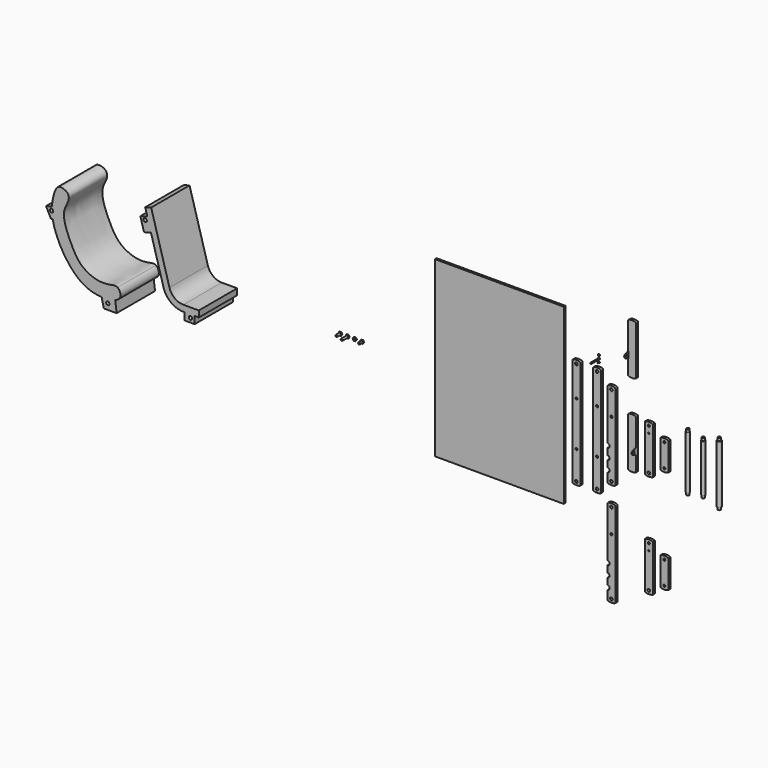
from build123d import *

# Parameters (mm, degrees)
F0_R           = 12.8
F0_R_2         = 10
F1_DEPTH       = 25
F2_R           = 12.8
F2_R_2         = 10
F3_DEPTH       = 25
F5_DEPTH       = 25
F6_R           = 6
F7_DEPTH       = 77
F8_R           = 10
F8_2_R         = 10
F8_3_R         = 10
F9_R           = 12.8
F9_R_2         = 6
F9_R_3         = 10
F10_DEPTH      = 25
F11_R          = 10
F12_DEPTH      = 25
F13_W          = 1247.740060091
F13_H          = 1678.5073876381
F14_DEPTH      = 20
F15_R          = 17.5
F16_DEPTH      = 257
F16_DEPTH_BACK = 257
F17_R          = 17.5
F18_DEPTH      = 232
F18_DEPTH_BACK = 232
F19_R          = 20
F20_DEPTH      = 282
F20_DEPTH_BACK = 282
F21_R          = 20
F22_DEPTH      = 25
F24_W          = 5
F24_H          = 60
F26_DEPTH      = 3
F27_R          = 20
F28_DEPTH      = 25
F23_R          = 10
F29_DEPTH      = 5
F30_R          = 2
F32_DEPTH      = 464
F37_R          = 200
F38_R          = 140
F39_W          = 100
F39_H          = 70
F39_R          = 16.5
F40_DEPTH      = 464
F41_R          = 12.8
F42_DEPTH      = 25
F43_R          = 12.8
F44_DEPTH      = 25
F45_R          = 12.8
F46_DEPTH      = 25
F47_R          = 12.8
F48_DEPTH      = 25
F49_R          = 12.8
F50_DEPTH      = 25
F51_R          = 12.8
F52_DEPTH      = 25
F54_DEPTH      = 8
F53_R          = 10
F55_R          = 10
F56_DEPTH      = 42
F57_R          = 10
F58_DEPTH      = 67
F59_R          = 10
F60_DEPTH      = 30
F61_R          = 10
F62_DEPTH      = 8
F65_DEPTH      = 5
F64_R          = 6
F66_R          = 6
F67_DEPTH      = 97
F69_DEPTH      = 3
F70_R          = 4
F71_DEPTH      = 13
F72_R          = 16.5
F73_DEPTH      = 464
F74_R          = 10
F75_DEPTH      = 5


with BuildPart() as f1:
    # F0 (on Front) → F1 (new body)
    with BuildSketch(Plane.XZ):
        with BuildLine():
            ThreePointArc((38.5, 525.6), (0, 533.3083427389), (-38.5, 525.6))
            Line((-38.5, 525.6), (-38.5, -525.6))
            ThreePointArc((-38.5, -525.6), (0, -533.3083427389), (38.5, -525.6))
            Line((38.5, -525.6), (38.5, 525.6))
        make_face()
        with Locations((0, -500)):
            Circle(F0_R, mode=Mode.SUBTRACT)
        with Locations((0, -225)):
            Circle(F0_R_2, mode=Mode.SUBTRACT)
        with Locations((0, 205)):
            Circle(F0_R_2, mode=Mode.SUBTRACT)
        with Locations((0, 500)):
            Circle(F0_R, mode=Mode.SUBTRACT)
    extrude(amount=F1_DEPTH)

    # F8
    f8_edges = [f1.edges().sort_by_distance(p)[0] for p in [
        (38.5, -12.5, 525.6),
        (-38.5, -12.5, 525.6),
        (38.5, -12.5, -525.6),
        (-38.5, -12.5, -525.6),
    ]]
    fillet(f8_edges, radius=F8_R)


with BuildPart() as f3:
    # F2 (on Front) → F3 (new body)
    with BuildSketch(Plane.XZ):
        with BuildLine():
            ThreePointArc((177, 415.6), (138.5, 423.3083427389), (100, 415.6))
            Line((100, 415.6), (100, -415.6))
            ThreePointArc((100, -415.6), (138.5, -423.3083427389), (177, -415.6))
            Line((177, -415.6), (177, 415.6))
        make_face()
        with Locations((138.5, -390)):
            Circle(F2_R, mode=Mode.SUBTRACT)
        with Locations((138.5, 160)):
            Circle(F2_R_2, mode=Mode.SUBTRACT)
        with Locations((138.5, 390)):
            Circle(F2_R, mode=Mode.SUBTRACT)
    extrude(amount=F3_DEPTH)

    # F8#2
    f8_2_edges = [f3.edges().sort_by_distance(p)[0] for p in [
        (100, -12.5, -415.6),
        (177, -12.5, -415.6),
        (100, -12.5, 415.6),
        (177, -12.5, 415.6),
    ]]
    fillet(f8_2_edges, radius=F8_2_R)

    # F21 (on face) → F22 (cut)
    with BuildSketch(Plane.XZ.offset(25)):
        with Locations((100, -96)):
            Circle(F21_R)
    extrude(amount=-F22_DEPTH, mode=Mode.SUBTRACT)

    # F27 (on face) → F28 (cut)
    with BuildSketch(Plane.XZ.offset(25)):
        with Locations((100, -306)):
            Circle(F27_R)
        with Locations((100, -201)):
            Circle(F27_R)
    extrude(amount=-F28_DEPTH, mode=Mode.SUBTRACT)

    # F30
    f30_edges = [f3.edges().sort_by_distance(p)[0] for p in [
        (120, -25, -96),
        (100, -12.5, -116),
        (120, 0, -96),
        (100, -12.5, -76),
        (120, 0, -201),
        (100, -12.5, -181),
        (120, -25, -201),
        (100, -12.5, -221),
        (120, 0, -306),
        (100, -12.5, -286),
        (120, -25, -306),
        (100, -12.5, -326),
    ]]
    fillet(f30_edges, radius=F30_R)


with BuildPart() as f5:
    # F4 (on Front) → F5 (new body)
    with BuildSketch(Plane.XZ):
        with BuildLine():
            ThreePointArc((377, 238.1), (338.5, 245.8083427389), (300, 238.1))
            Line((300, 238.1), (300, -238.1))
            ThreePointArc((300, -238.1), (338.5, -245.8083427389), (377, -238.1))
            Line((377, -238.1), (377, 238.1))
        make_face()
    extrude(amount=F5_DEPTH)

    # F6 (on face) → F7 (cut, through all)
    with BuildSketch(Plane.YZ.offset(377)):
        with Locations((-12.5, 212.5)):
            Circle(F6_R)
    extrude(amount=-F7_DEPTH, mode=Mode.SUBTRACT)

    # F8#3
    f8_3_edges = [f5.edges().sort_by_distance(p)[0] for p in [
        (377, -12.5, -238.1),
        (300, -12.5, -238.1),
        (377, -12.5, 238.1),
        (300, -12.5, 238.1),
    ]]
    fillet(f8_3_edges, radius=F8_3_R)


with BuildPart() as f10:
    # F9 (on Front) → F10 (new body)
    with BuildSketch(Plane.XZ):
        with BuildLine():
            ThreePointArc((538.5, 225.6), (500, 233.3083427389), (461.5, 225.6))
            Line((461.5, 225.6), (461.5, -225.6))
            ThreePointArc((461.5, -225.6), (500, -233.3083427389), (538.5, -225.6))
            Line((538.5, -225.6), (538.5, 225.6))
        make_face()
        with Locations((500, -200)):
            Circle(F9_R, mode=Mode.SUBTRACT)
        with Locations((500, 138)):
            Circle(F9_R_2, mode=Mode.SUBTRACT)
        with Locations((500, 200)):
            Circle(F9_R_3, mode=Mode.SUBTRACT)
    extrude(amount=F10_DEPTH)


with BuildPart() as f12:
    # F11 (on Front) → F12 (new body)
    with BuildSketch(Plane.XZ):
        with BuildLine():
            ThreePointArc((688.5, 135.6), (650, 143.3083427389), (611.5, 135.6))
            Line((611.5, 135.6), (611.5, -137.6))
            ThreePointArc((611.5, -137.6), (650, -145.3083427389), (688.5, -137.6))
            Line((688.5, -137.6), (688.5, 135.6))
        make_face()
        with Locations((650, -112)):
            Circle(F11_R, mode=Mode.SUBTRACT)
        with Locations((650, 110)):
            Circle(F11_R, mode=Mode.SUBTRACT)
    extrude(amount=F12_DEPTH)


with BuildPart() as f14:
    # F13 (on Front) → F14 (new body)
    with BuildSketch(Plane.XZ):
        with Locations((-949.8512595892, 103.7272512913)):
            Rectangle(F13_W, F13_H)
    extrude(amount=F14_DEPTH)


with BuildPart() as f16:
    # F15 (on Top) → F16 (new body, two sides)
    with BuildSketch(Plane.XY) as f16_sk:
        with Locations((857.8587174416, 0)):
            Circle(F15_R)
    extrude(amount=F16_DEPTH)
    extrude(f16_sk.sketch, amount=-F16_DEPTH_BACK)

    # F41 (on face) → F42 (join)
    with BuildSketch(Plane.XY.offset(257)):
        with Locations((857.8587174416, 0)):
            Circle(F41_R)
    extrude(amount=F42_DEPTH)

    # F43 (on face) → F44 (join)
    with BuildSketch(Plane(origin=(0, 0, -257), x_dir=(1, 0, 0), z_dir=(0, 0, -1))):
        with Locations((857.8587174416, 0)):
            Circle(F43_R)
    extrude(amount=F44_DEPTH)


with BuildPart() as f18:
    # F17 (on Top) → F18 (new body, two sides)
    with BuildSketch(Plane.XY) as f18_sk:
        with Locations((1006.9922208786, 0)):
            Circle(F17_R)
    extrude(amount=F18_DEPTH)
    extrude(f18_sk.sketch, amount=-F18_DEPTH_BACK)

    # F45 (on face) → F46 (join)
    with BuildSketch(Plane(origin=(0, 0, -232), x_dir=(1, 0, 0), z_dir=(0, 0, -1))):
        with Locations((1006.9922208786, 0)):
            Circle(F45_R)
    extrude(amount=F46_DEPTH)

    # F47 (on face) → F48 (join)
    with BuildSketch(Plane.XY.offset(232)):
        with Locations((1006.9922208786, 0)):
            Circle(F47_R)
    extrude(amount=F48_DEPTH)


with BuildPart() as f20:
    # F19 (on Top) → F20 (new body, two sides)
    with BuildSketch(Plane.XY) as f20_sk:
        with Locations((1161.1481904984, 0)):
            Circle(F19_R)
    extrude(amount=F20_DEPTH)
    extrude(f20_sk.sketch, amount=-F20_DEPTH_BACK)

    # F49 (on face) → F50 (join)
    with BuildSketch(Plane(origin=(0, 0, -282), x_dir=(1, 0, 0), z_dir=(0, 0, -1))):
        with Locations((1161.1481904984, 0)):
            Circle(F49_R)
    extrude(amount=F50_DEPTH)

    # F51 (on face) → F52 (join)
    with BuildSketch(Plane.XY.offset(282)):
        with Locations((1161.1481904984, 0)):
            Circle(F51_R)
    extrude(amount=F52_DEPTH)


with BuildPart() as f25_1:
    # F25: copy of F5
    add(f5.part.moved(Location((0, 0, 800))))

    # F74 (on face) → F75 (join)
    with BuildSketch(Plane(origin=(300, 0, 0), x_dir=(0, -1, 0), z_dir=(-1, 0, 0))):
        with BuildLine():
            Line((59.2335510407, 761.3324000165), (28, 772.5))
            Line((28, 772.5), (25, 772.5))
            Line((25, 772.5), (25, 712.5))
            Line((25, 712.5), (28, 712.5))
            Line((28, 712.5), (59.2335510407, 723.6675999835))
            ThreePointArc((59.2335510407, 723.6675999835), (72.5, 742.5), (59.2335510407, 761.3324000165))
        make_face()
        with Locations((52.5, 742.5)):
            Circle(F74_R, mode=Mode.SUBTRACT)
    extrude(amount=-F75_DEPTH)


with BuildPart() as f5_1:
    add(f5.part)

    # F24 (on face) → F26 (join)
    with BuildSketch(Plane.XZ.offset(25)):
        with Locations((374.5, -57.5)):
            Rectangle(F24_W, F24_H)
    extrude(amount=F26_DEPTH)

    # F23 (on face) → F29 (join)
    with BuildSketch(Plane.YZ.offset(377)):
        with BuildLine():
            Line((-28, -87.5), (-28, -27.5))
            Line((-28, -27.5), (-59.2335510407, -38.6675999835))
            ThreePointArc((-59.2335510407, -38.6675999835), (-72.5, -57.5), (-59.2335510407, -76.3324000165))
            Line((-59.2335510407, -76.3324000165), (-28, -87.5))
        make_face()
        with Locations((-52.5, -57.5)):
            Circle(F23_R, mode=Mode.SUBTRACT)
    extrude(amount=-F29_DEPTH)


with BuildPart() as f32:
    # F31 (on Front) → F32 (new body)
    with BuildSketch(Plane.XZ):
        Polygon((-4018.256848581, 769.6518356033), (-3800, 0), (-3500, 0), (-3500, 60), (-3754.648858782, 60), (-3960.5329609108, 786.0210992468), align=None)
    extrude(amount=F32_DEPTH)

    # F37
    f37_edges = [f32.edges().sort_by_distance(p)[0] for p in [
        (-3800, -232, 0),
    ]]
    fillet(f37_edges, radius=F37_R)

    # F38
    f38_edges = [f32.edges().sort_by_distance(p)[0] for p in [
        (-3754.648859, -232, 60),
    ]]
    fillet(f38_edges, radius=F38_R)

    # F39 (on face) → F40 (join, through all)
    with BuildSketch(Plane.XZ.offset(464)):
        with Locations((-3590, -35)):
            Rectangle(F39_W, F39_H)
        with Locations((-3580, -30)):
            Circle(F39_R, mode=Mode.SUBTRACT)
        Polygon((-3962.4208914776, 572.7542483948), (-3997.887629372, 697.8226716803), (-4065.2321649873, 678.7251974295), (-4029.7654270929, 553.656774144), align=None)
        with Locations((-4018.5649413853, 660.7760960234)):
            Circle(F39_R, mode=Mode.SUBTRACT)
    extrude(amount=-F40_DEPTH)


with BuildPart() as f33_1:
    # F33: copy of F1
    add(f1.part.moved(Location((-200, 0, 0))))


with BuildPart() as f34_1:
    # F34: copy of F3
    add(f3.part.moved(Location((0, 0, -1000))))


with BuildPart() as f35_1:
    # F35: copy of F10
    add(f10.part.moved(Location((0, 0, -1000))))


with BuildPart() as f36_1:
    # F36: copy of F12
    add(f12.part.moved(Location((0, 0, -1000))))


with BuildPart() as f54:
    # F53 (on Front) → F54 (new body)
    with BuildSketch(Plane.XZ):
        Polygon((-2491.3397459622, 15), (-2508.6602540378, 15), (-2517.3205080757, 0), (-2508.6602540378, -15), (-2491.3397459622, -15), (-2482.6794919243, 0), align=None)
    extrude(amount=F54_DEPTH)

    # F55 (on face) → F56 (join)
    with BuildSketch(Plane.XZ.offset(8)):
        with Locations((-2500, 0)):
            Circle(F55_R)
    extrude(amount=F56_DEPTH)


with BuildPart() as f54b:
    # F53 (on Front) → F54, piece 2 (new body)
    with BuildSketch(Plane.XZ):
        Polygon((-2421.3397459622, 15), (-2438.6602540378, 15), (-2447.3205080757, 0), (-2438.6602540378, -15), (-2421.3397459622, -15), (-2412.6794919243, 0), align=None)
    extrude(amount=F54_DEPTH)

    # F57 (on face) → F58 (join)
    with BuildSketch(Plane.XZ.offset(8)):
        with Locations((-2430, 0)):
            Circle(F57_R)
    extrude(amount=F58_DEPTH)


with BuildPart() as f54c:
    # F53 (on Front) → F54, piece 3 (new body)
    with BuildSketch(Plane.XZ):
        Polygon((-2351.3397459622, 15), (-2368.6602540378, 15), (-2377.3205080757, 0), (-2368.6602540378, -15), (-2351.3397459622, -15), (-2342.6794919243, 0), align=None)
        with Locations((-2360, 0)):
            Circle(F53_R, mode=Mode.SUBTRACT)
    extrude(amount=F54_DEPTH)


with BuildPart() as f54d:
    # F53 (on Front) → F54, piece 4 (new body)
    with BuildSketch(Plane.XZ):
        Polygon((-2281.3397459622, 15), (-2298.6602540378, 15), (-2307.3205080757, 0), (-2298.6602540378, -15), (-2281.3397459622, -15), (-2272.6794919243, 0), align=None)
    extrude(amount=F54_DEPTH)

    # F59 (on face) → F60 (join)
    with BuildSketch(Plane.XZ.offset(8)):
        with Locations((-2290, 0)):
            Circle(F59_R)
    extrude(amount=F60_DEPTH)


with BuildPart() as f1_1:
    add(f1.part)

    # F61 (on face) → F62 (cut)
    with BuildSketch(Plane.XZ.offset(25)):
        with Locations((500, 138)):
            Circle(F61_R)
    extrude(amount=F62_DEPTH, mode=Mode.SUBTRACT)


with BuildPart() as f65:
    # F64 (on Front) → F65 (new body)
    with BuildSketch(Plane.XZ):
        Polygon((4.6188021535, 608), (-4.6188021535, 608), (-9.237604307, 600), (-4.6188021535, 592), (4.6188021535, 592), (9.237604307, 600), align=None)
    extrude(amount=F65_DEPTH)

    # F66 (on face) → F67 (join)
    with BuildSketch(Plane.XZ.offset(5)):
        with Locations((0, 600)):
            Circle(F66_R)
    extrude(amount=F67_DEPTH)


with BuildPart() as f65b:
    # F64 (on Front) → F65, piece 2 (new body)
    with BuildSketch(Plane.XZ):
        Polygon((4.6188021535, 638), (-4.6188021535, 638), (-9.237604307, 630), (-4.6188021535, 622), (4.6188021535, 622), (9.237604307, 630), align=None)
        with Locations((0, 630)):
            Circle(F64_R, mode=Mode.SUBTRACT)
    extrude(amount=F65_DEPTH)


with BuildPart() as f69:
    # F68 (on Front) → F69 (new body)
    with BuildSketch(Plane.XZ):
        Polygon((4.0414518843, 577), (-4.0414518843, 577), (-8.0829037687, 570), (-4.0414518843, 563), (4.0414518843, 563), (8.0829037687, 570), align=None)
    extrude(amount=F69_DEPTH)

    # F70 (on face) → F71 (join)
    with BuildSketch(Plane.XZ.offset(3)):
        with Locations((0, 570)):
            Circle(F70_R)
    extrude(amount=F71_DEPTH)


with BuildPart() as f73:
    # F72 (on Front) → F73 (new body, through all)
    with BuildSketch(Plane.XZ):
        with BuildLine():
            ThreePointArc((-4920.9502491948, 462.0097111177), (-4911.5568183276, 456.2543523204), (-4907.8792214082, 445.869941926))
            ThreePointArc((-4907.8792214082, 445.869941926), (-4911.1891040412, 435.9567787656), (-4919.7908339955, 430.0207557971))
            add(Edge.make_bspline(
                [(-4912.2764153591, 375.6879139776), (-4915.8398163177, 393.9209062823), (-4918.4168826579, 412.1038315739), (-4919.7908339955, 430.020755797)],
                knots=[0.3577641631, 0.3577641631, 0.3577641631, 0.3577641631, 0.3774115815, 0.3774115815, 0.3774115815, 0.3774115815], degree=3))
            add(Edge.make_bspline(
                [(-4439.6719971881, -130.6891403251), (-4469.4841462447, -129.1540904431), (-4611.1618321975, -108.4017687232), (-4758.404163816, 34.6027118759), (-4858.6474546257, 198.5059970599), (-4902.0875649154, 323.5542265548), (-4912.2764153591, 375.6879139776)],
                knots=[0.1120496442, 0.1120496442, 0.1120496442, 0.1120496442, 0.1359109657, 0.2240650481, 0.3015862, 0.3577641631, 0.3577641631, 0.3577641631, 0.3577641631], degree=3))
            add(Edge.make_bspline(
                [(-4308.2491358087, -114.8879440492), (-4342.6196242776, -127.934802081), (-4390.6485574203, -133.2133939536), (-4439.6719971881, -130.6891403251)],
                knots=[0.0728118136, 0.0728118136, 0.0728118136, 0.0728118136, 0.1120496442, 0.1120496442, 0.1120496442, 0.1120496442], degree=3))
            add(Edge.make_bspline(
                [(-4285.5487082576, 0), (-4263.7296710402, -14.626885752), (-4239.0466362573, -74.1768382411), (-4287.5975324985, -107.0487032202), (-4308.2491358087, -114.8879440492)],
                knots=[0, 0, 0, 0, 0.0492356542, 0.0728118136, 0.0728118136, 0.0728118136, 0.0728118136], degree=3))
            add(Edge.make_bspline(
                [(-4920.3445877249, 482.8762718747), (-4917.863721168, 529.041289882), (-4899.8413510171, 607.712734007), (-4869.3165254482, 675.9187388081), (-4816.3581049196, 676.1631696587), (-4759.8056367954, 650.5794052602), (-4749.8176975338, 579.2269937168), (-4838.5649009267, 466.9638573939), (-4736.3054159917, 218.9333806067), (-4644.3167425239, 61.3172738431), (-4484.4591422486, -11.1565789742), (-4361.5925202796, -5.3538341752), (-4305.550806956, 13.4088598662), (-4285.5487082576, 0)],
                knots=[0.3971093078, 0.3971093078, 0.3971093078, 0.3971093078, 0.4499969179, 0.4949645246, 0.530464668, 0.5703302061, 0.6109172399, 0.6705985767, 0.7551348906, 0.8280552268, 0.8959568714, 0.9548643505, 1, 1, 1, 1], degree=3))
            add(Edge.make_bspline(
                [(-4920.9502491948, 462.0097111177), (-4920.9227854693, 469.0357917982), (-4920.7142997355, 475.9965138417), (-4920.3445877249, 482.8762718747)],
                knots=[0.3892277131, 0.3892277131, 0.3892277131, 0.3892277131, 0.3971093078, 0.3971093078, 0.3971093078, 0.3971093078], degree=3))
        make_face()
        with BuildLine():
            ThreePointArc((-4919.7908339955, 430.0207557971), (-4940.8683945066, 445.2723044689), (-4920.9502491948, 462.0097111177))
            add(Edge.make_bspline(
                [(-4920.9502491948, 462.0097111177), (-4920.9227854693, 469.0357917982), (-4920.7142997355, 475.9965138417), (-4920.3445877249, 482.8762718747)],
                knots=[0.3892277131, 0.3892277131, 0.3892277131, 0.3892277131, 0.3971093078, 0.3971093078, 0.3971093078, 0.3971093078], degree=3))
            Line((-4920.3445877249, 482.8762718747), (-4976.5352961587, 468.1484616543))
            Line((-4976.5352961587, 468.1484616543), (-4929.9644619914, 375.6879139776))
            Line((-4929.9644619914, 375.6879139776), (-4912.2764153591, 375.6879139776))
            add(Edge.make_bspline(
                [(-4912.2764153591, 375.6879139776), (-4915.8398163177, 393.9209062823), (-4918.4168826579, 412.1038315739), (-4919.7908339955, 430.020755797)],
                knots=[0.3577641631, 0.3577641631, 0.3577641631, 0.3577641631, 0.3774115815, 0.3774115815, 0.3774115815, 0.3774115815], degree=3))
        make_face()
        with BuildLine():
            add(Edge.make_bspline(
                [(-4308.2491358087, -114.8879440492), (-4342.6196242776, -127.934802081), (-4390.6485574203, -133.2133939536), (-4439.6719971881, -130.6891403251)],
                knots=[0.0728118136, 0.0728118136, 0.0728118136, 0.0728118136, 0.1120496442, 0.1120496442, 0.1120496442, 0.1120496442], degree=3))
            Line((-4439.6719971881, -130.6891403251), (-4418.4968330557, -221.8165908457))
            Line((-4418.4968330557, -221.8165908457), (-4294.2614000862, -221.8165908457))
            Line((-4294.2614000862, -221.8165908457), (-4308.2491358087, -114.8879440492))
        make_face()
        with Locations((-4380, -165)):
            Circle(F72_R, mode=Mode.SUBTRACT)
    extrude(amount=F73_DEPTH)


solid = Compound([f3.part, f10.part, f12.part, f14.part, f16.part, f18.part, f20.part, f25_1.part, f5_1.part, f32.part, f33_1.part, f34_1.part, f35_1.part, f36_1.part, f54.part, f54b.part, f54c.part, f54d.part, f1_1.part, f65.part, f65b.part, f69.part, f73.part])
